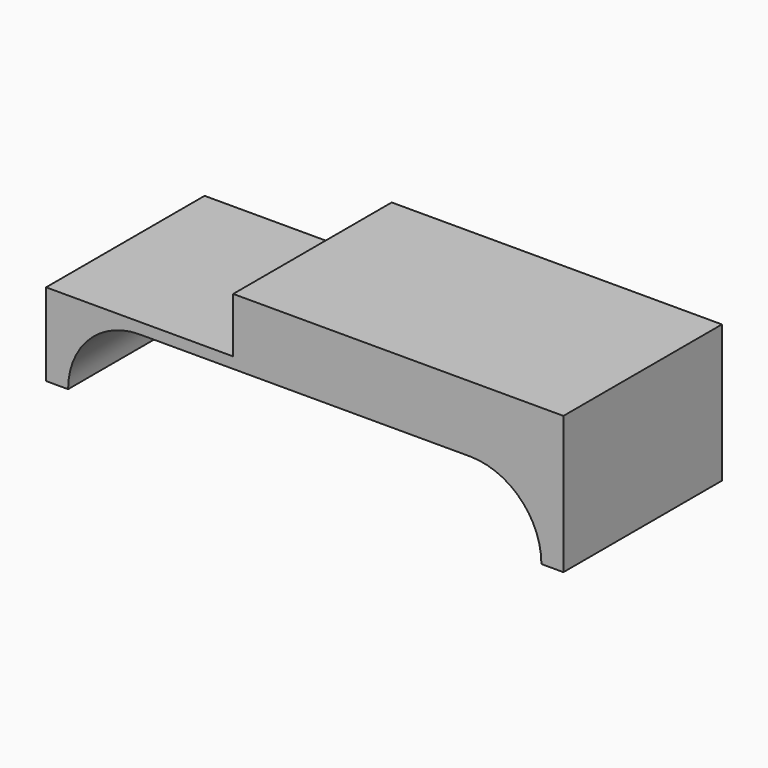
from build123d import *

# Parameters (mm, degrees)
F0_W     = 47
F0_H     = 7.5
F1_DEPTH = 18
F2_W     = 30
F2_H     = 6.5
F3_DEPTH = 25
F4_R     = 6.5
F5_DEPTH = 25
F6_R     = 6.5
F7_DEPTH = 25
F8_W     = 30
F8_H     = 18
F9_DEPTH = 5


with BuildPart() as f1:
    # F0 (on Front) → F1 (new body)
    with BuildSketch(Plane.XZ):
        with Locations((23.5, 3.75)):
            Rectangle(F0_W, F0_H)
    extrude(amount=F1_DEPTH)

    # F2 (on face) → F3 (cut)
    with BuildSketch(Plane.XZ.offset(18)):
        with Locations((23.5, 3.25)):
            Rectangle(F2_W, F2_H)
    extrude(amount=-F3_DEPTH, mode=Mode.SUBTRACT)

    # F4 (on face) → F5 (cut)
    with BuildSketch(Plane.XZ.offset(18)):
        with Locations((8.5, 0)):
            Circle(F4_R)
    extrude(amount=-F5_DEPTH, mode=Mode.SUBTRACT)

    # F6 (on face) → F7 (cut)
    with BuildSketch(Plane.XZ.offset(18)):
        with Locations((38.5, 0)):
            Circle(F6_R)
    extrude(amount=-F7_DEPTH, mode=Mode.SUBTRACT)

    # F8 (on face) → F9 (join)
    with BuildSketch(Plane.XY.offset(7.5)):
        with Locations((32, -9)):
            Rectangle(F8_W, F8_H)
    extrude(amount=F9_DEPTH)


solid = f1.part
